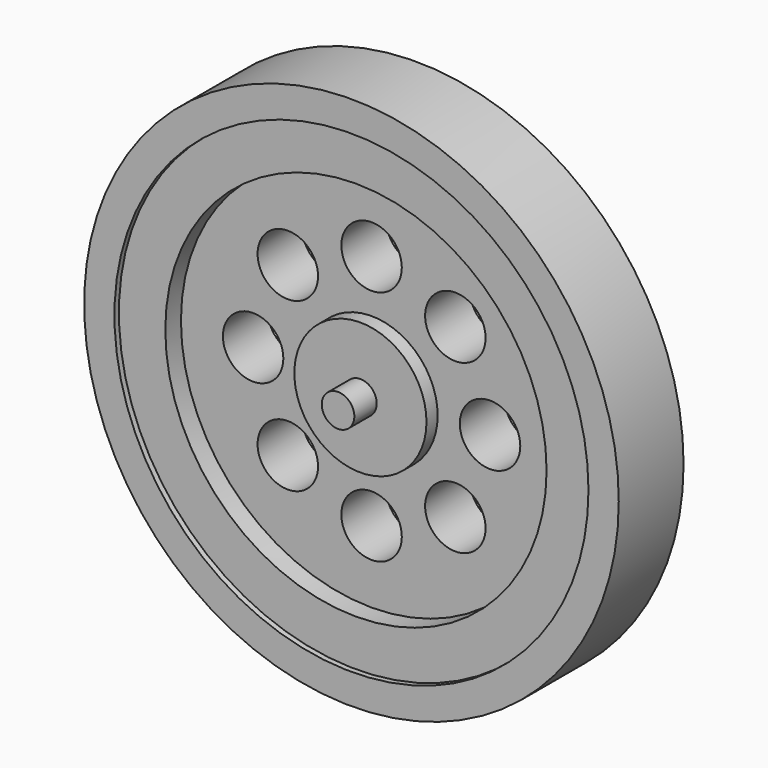
from build123d import *

# Parameters (mm, degrees)
F0_R      = 24.305161
F1_DEPTH  = 5.08
F2_R      = 24.305161
F2_R_2    = 21.550516
F5_DEPTH  = 2.286
F4_R      = 21.550516
F4_R_2    = 17.333269
F6_DEPTH  = 1.778
F3_R      = 6.008361
F7_DEPTH  = 1.27
F8_R      = 1.480993
F9_DEPTH  = 2.54
F10_R     = 2.748389
F11_DEPTH = 25.4


with BuildPart() as f1:
    # F0 (on Front) → F1 (new body)
    with BuildSketch(Plane.XZ):
        Circle(F0_R)
    extrude(amount=F1_DEPTH)

    # F2 (on face) → F5 (join)
    with BuildSketch(Plane.XZ.offset(5.08)):
        Circle(F2_R)
        Circle(F2_R_2, mode=Mode.SUBTRACT)
    extrude(amount=F5_DEPTH)

    # F4 (on face) → F6 (join)
    with BuildSketch(Plane.XZ.offset(5.08)):
        Circle(F4_R)
        Circle(F4_R_2, mode=Mode.SUBTRACT)
    extrude(amount=F6_DEPTH)

    # F3 (on face) → F7 (join)
    with BuildSketch(Plane.XZ.offset(5.08)):
        Circle(F3_R)
    extrude(amount=F7_DEPTH)

    # F8 (on face) → F9 (join)
    with BuildSketch(Plane.XZ.offset(6.35)):
        Circle(F8_R)
    extrude(amount=F9_DEPTH)

    # F10 (on face) → F11 (cut)
    with BuildSketch(Plane.XZ.offset(5.08)):
        with Locations((0, 10.771388)):
            Circle(F10_R)
        with Locations((7.616522, 7.616522)):
            Circle(F10_R)
        with Locations((10.771388, 0)):
            Circle(F10_R)
        with Locations((7.616522, -7.616522)):
            Circle(F10_R)
        with Locations((0, -10.771388)):
            Circle(F10_R)
        with Locations((-7.616522, -7.616522)):
            Circle(F10_R)
        with Locations((-10.771388, 0)):
            Circle(F10_R)
        with Locations((-7.616522, 7.616522)):
            Circle(F10_R)
    extrude(amount=-F11_DEPTH, mode=Mode.SUBTRACT)


solid = f1.part
